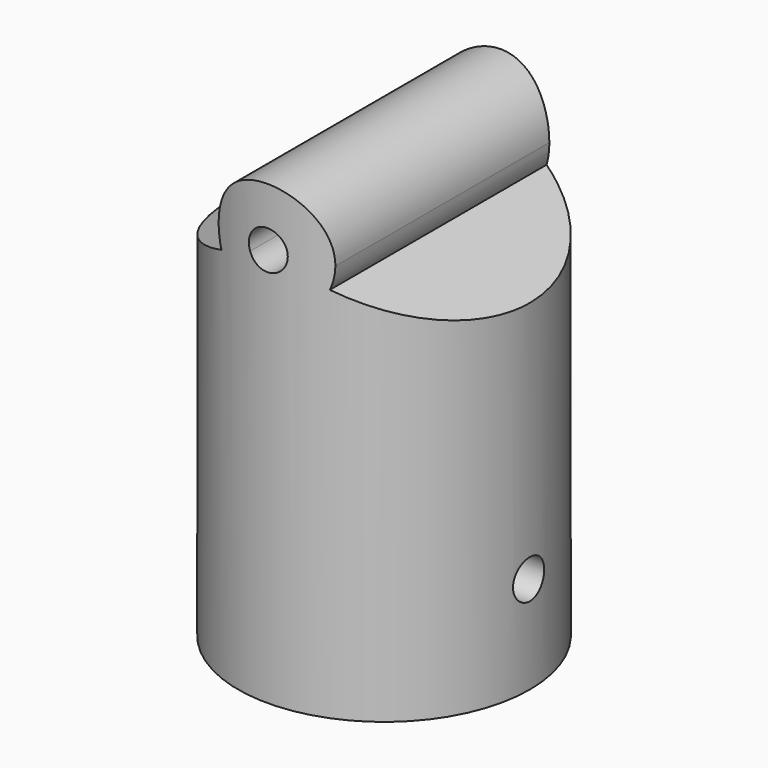
from build123d import *

# Parameters (mm, degrees)
F0_R     = 15
F1_DEPTH = 35
F3_DEPTH = 15
F4_W     = 36.4194698632
F4_H     = 35.84138304
F4_R     = 15
F5_DEPTH = 50
F6_R     = 11
F7_DEPTH = 30
F8_R     = 2
F9_DEPTH = 15


with BuildPart() as f1:
    # F0 (on Top) → F1 (new body)
    with BuildSketch(Plane.XY):
        Circle(F0_R)
    extrude(amount=F1_DEPTH)

    # F2 (on Front) → F3 (join, symmetric)
    with BuildSketch(Plane.XZ):
        with BuildLine():
            ThreePointArc((1.082e-07, 35), (-3.363772811, 36.0315965868), (-5.5708601453, 38.7716559419))
            Line((-5.5708601453, 38.7716559419), (-15, 35))
            Line((-15, 35), (1.082e-07, 35))
        make_face()
        with BuildLine():
            Line((-1.8569533818, 40.2572186473), (-5.5708601453, 38.7716559419))
            ThreePointArc((-5.5708601453, 38.7716559419), (-3.363772811, 36.0315965868), (1.082e-07, 35))
            ThreePointArc((1.082e-07, 35), (3.3637729006, 36.0315966475), (5.5708601453, 38.7716559419))
            Line((5.5708601453, 38.7716559419), (1.8569533818, 40.2572186473))
            ThreePointArc((1.8569533818, 40.2572186473), (0, 39), (-1.8569533818, 40.2572186473))
        make_face()
        with BuildLine():
            Line((15, 35), (5.5708601453, 38.7716559419))
            ThreePointArc((5.5708601453, 38.7716559419), (3.3637729006, 36.0315966475), (1.082e-07, 35))
            Line((1.082e-07, 35), (15, 35))
        make_face()
        with BuildLine():
            ThreePointArc((5.5708601453, 38.7716559419), (5.8917383204, 39.8653548731), (6, 41))
            ThreePointArc((6, 41), (-1.1346451269, 46.8917383204), (-5.5708601453, 38.7716559419))
            Line((-5.5708601453, 38.7716559419), (-1.8569533818, 40.2572186473))
            ThreePointArc((-1.8569533818, 40.2572186473), (-0.3782150423, 42.9639127735), (2, 41))
            ThreePointArc((2, 41), (1.9639127735, 40.6217849577), (1.8569533818, 40.2572186473))
            Line((1.8569533818, 40.2572186473), (5.5708601453, 38.7716559419))
        make_face()
    extrude(amount=F3_DEPTH, both=True)

    # F4 (on face) → F5 (cut)
    with BuildSketch(Plane(origin=(0, 0, 0), x_dir=(1, 0, 0), z_dir=(0, 0, -1))):
        with Locations((1.1052396148, -0.1735072583)):
            Rectangle(F4_W, F4_H)
        Circle(F4_R, mode=Mode.SUBTRACT)
    extrude(amount=-F5_DEPTH, mode=Mode.SUBTRACT)

    # F6 (on face) → F7 (cut)
    with BuildSketch(Plane(origin=(0, 0, 0), x_dir=(1, 0, 0), z_dir=(0, 0, -1))):
        Circle(F6_R)
    extrude(amount=-F7_DEPTH, mode=Mode.SUBTRACT)

    # F8 (on Right) → F9 (cut, symmetric)
    with BuildSketch(Plane.YZ):
        with Locations((0, 10)):
            Circle(F8_R)
    extrude(amount=F9_DEPTH, both=True, mode=Mode.SUBTRACT)


solid = f1.part
